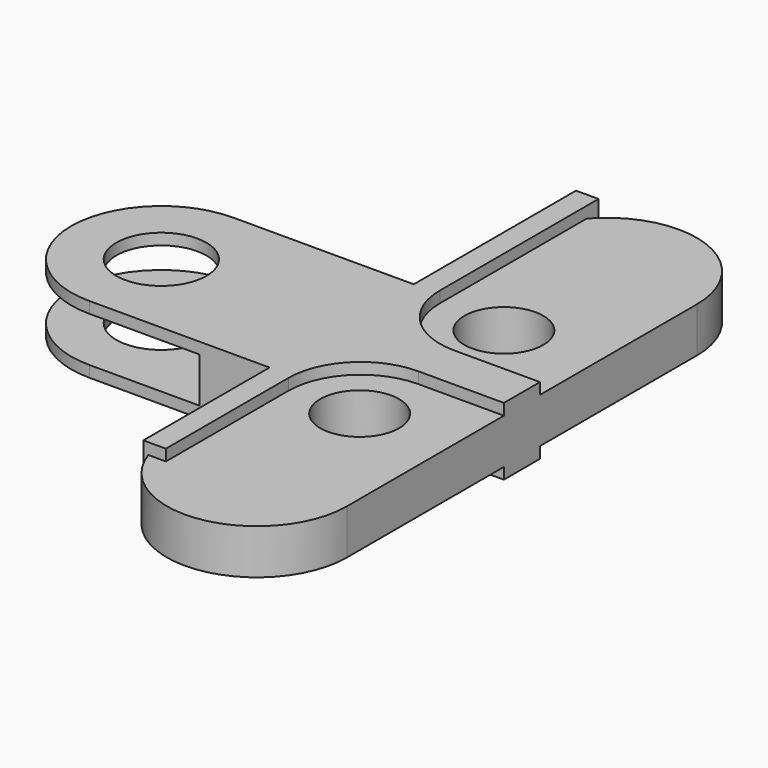
from build123d import *

# Parameters (mm, degrees)
F1_DEPTH = 5
F2_R     = 8.75
F3_DEPTH = 12.5
F5_DEPTH = 7.5
F7_DEPTH = 5
F8_R     = 10
F9_DEPTH = 25


with BuildPart() as f1:
    # F0 (on Top) → F1 (new body, symmetric)
    with BuildSketch(Plane.XY):
        with BuildLine():
            Line((20, -48.5), (20, 48.5))
            ThreePointArc((20, 48.5), (0, 68.5), (-20, 48.5))
            Line((-20, 48.5), (-20, -48.5))
            ThreePointArc((-20, -48.5), (0, -68.5), (20, -48.5))
        make_face()
    extrude(amount=F1_DEPTH, both=True)

    # F2 (on Top) → F3 (cut, symmetric)
    with BuildSketch(Plane.XY):
        with Locations((0, 20)):
            Circle(F2_R)
        with Locations((0, -20)):
            Circle(F2_R)
    extrude(amount=F3_DEPTH, both=True, mode=Mode.SUBTRACT)

    # F4 (on Top) → F5 (join, symmetric)
    with BuildSketch(Plane.XY):
        with BuildLine():
            Line((-15, 65), (-20, 65))
            Line((-20, 65), (-20, 20))
            Line((-20, 20), (-60, 20))
            ThreePointArc((-60, 20), (-80, 0), (-60, -20))
            Line((-60, -20), (-20, -20))
            Line((-20, -20), (-20, -55))
            Line((-20, -55), (-15, -55))
            Line((-15, -55), (-15, -21))
            ThreePointArc((-15, -21), (-10.313708499, -9.686291501), (1, -5))
            Line((1, -5), (20, -5))
            Line((20, -5), (20, 5))
            Line((20, 5), (1, 5))
            ThreePointArc((1, 5), (-10.313708499, 9.686291501), (-15, 21))
            Line((-15, 21), (-15, 65))
        make_face()
    extrude(amount=F5_DEPTH, both=True)

    # F6 (on Top) → F7 (cut, symmetric)
    with BuildSketch(Plane.XY):
        with BuildLine():
            Line((-35.5, 20), (-60, 20))
            ThreePointArc((-60, 20), (-80, 0), (-60, -20))
            Line((-60, -20), (-35.5, -20))
            Line((-35.5, -20), (-35.5, 20))
        make_face()
    extrude(amount=F7_DEPTH, both=True, mode=Mode.SUBTRACT)

    # F8 (on face) → F9 (cut)
    with BuildSketch(Plane.XY.offset(7.5)):
        with Locations((-60, 0)):
            Circle(F8_R)
    extrude(amount=-F9_DEPTH, mode=Mode.SUBTRACT)


solid = f1.part
